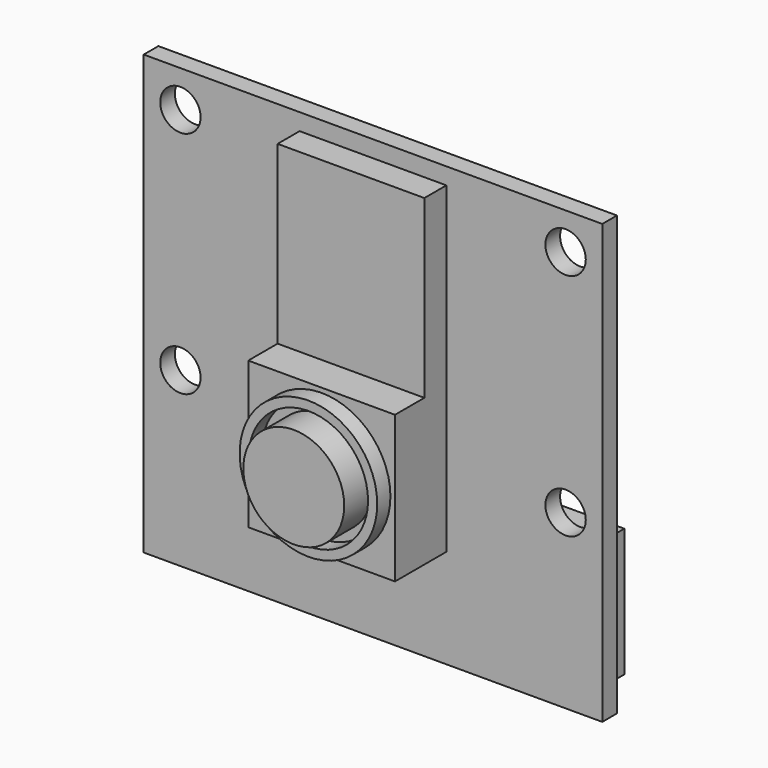
from build123d import *

# Parameters (mm, degrees)
F0_W          = 25
F0_H          = 23.9
F0_R          = 1.1
F1_DEPTH      = 1
F2_W          = 8
F2_H          = 8
F3_DEPTH      = 3.5
F4_R          = 3.75
F4_R_2        = 3.25
F5_DEPTH      = 0.9
F6_R          = 2.75
F7_DEPTH      = 1
F7_DEPTH_BACK = 1
F8_W          = 8
F8_H          = 9.601063
F9_DEPTH      = 1.5
F10_W         = 21
F10_H         = 7
F11_DEPTH     = 3


with BuildPart() as f1:
    # F0 (on Front) → F1 (new body)
    with BuildSketch(Plane.XZ):
        with Locations((0, 2.55)):
            Rectangle(F0_W, F0_H)
        with Locations((-10.5, 0)):
            Circle(F0_R, mode=Mode.SUBTRACT)
        with Locations((10.5, 0)):
            Circle(F0_R, mode=Mode.SUBTRACT)
        with Locations((-10.5, 12.5)):
            Circle(F0_R, mode=Mode.SUBTRACT)
        with Locations((10.5, 12.5)):
            Circle(F0_R, mode=Mode.SUBTRACT)
    extrude(amount=F1_DEPTH)

    # F2 (on face) → F3 (join)
    with BuildSketch(Plane.XZ.offset(1)):
        Rectangle(F2_W, F2_H)
    extrude(amount=F3_DEPTH)

    # F4 (on face) → F5 (join)
    with BuildSketch(Plane.XZ.offset(4.5)):
        Circle(F4_R)
        Circle(F4_R_2, mode=Mode.SUBTRACT)
    extrude(amount=F5_DEPTH)

    # F8 (on face) → F9 (join)
    with BuildSketch(Plane.XZ.offset(1)):
        with Locations((0, 8.787777)):
            Rectangle(F8_W, F8_H)
    extrude(amount=F9_DEPTH)

    # F10 (on face) → F11 (join)
    with BuildSketch(Plane(origin=(0, 0, 0), x_dir=(-1, 0, 0), z_dir=(0, 1, 0))):
        with Locations((0, -5.9)):
            Rectangle(F10_W, F10_H)
    extrude(amount=F11_DEPTH)


with BuildPart() as f7:
    # F6 (on face) → F7 (new body, two sides)
    with BuildSketch(Plane.XZ.offset(5.4)) as f7_sk:
        Circle(F6_R)
    extrude(amount=F7_DEPTH)
    extrude(f7_sk.sketch, amount=-F7_DEPTH_BACK)


solid = Compound([f1.part, f7.part])
